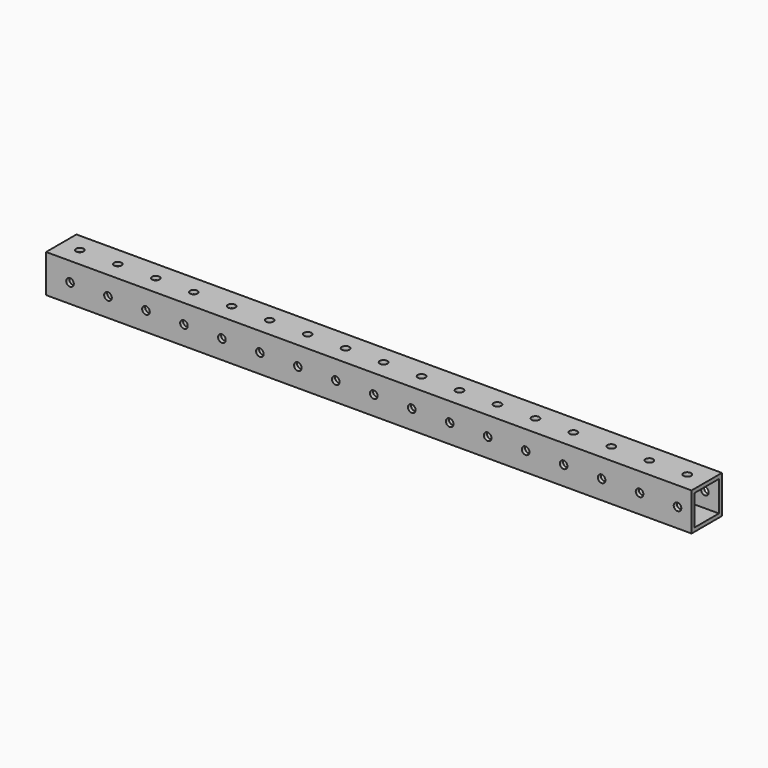
from build123d import *

# Parameters (mm, degrees)
F0_W     = 431.8
F0_H     = 25.4
F1_DEPTH = 25.4
F2_W     = 20.32
F2_H     = 20.32
F3_DEPTH = 457.2
F5_D     = 5.1054
F7_D     = 5.1054


with BuildPart() as f1:
    # F0 (on Top) → F1 (new body)
    with BuildSketch(Plane.XY):
        with Locations((-2.601906, -22.068714)):
            Rectangle(F0_W, F0_H)
    extrude(amount=F1_DEPTH)

    # F2 (on face) → F3 (cut)
    with BuildSketch(Plane.YZ.offset(213.298094)):
        with Locations((-22.068714, 12.7)):
            Rectangle(F2_W, F2_H)
    extrude(amount=-F3_DEPTH, mode=Mode.SUBTRACT)

    # F5 (through all)
    with Locations(Plane.XY.offset(25.4)):
        with Locations((200.313424, -22.068714), (149.513424, -22.068714), (225.713424, -22.068714), (73.313424, -22.068714), (98.713424, -22.068714), (124.113424, -22.068714), (-206.086576, -22.068714), (-180.686576, -22.068714), (-155.286576, -22.068714), (-129.886576, -22.068714), (-104.486576, -22.068714), (-79.086576, -22.068714), (-53.686576, -22.068714), (174.913424, -22.068714), (-28.286576, -22.068714), (-2.886576, -22.068714), (22.513424, -22.068714), (47.913424, -22.068714)):
            Hole(F5_D / 2)

    # F7 (through all)
    with Locations(Plane(origin=(0, -9.368714, 0), x_dir=(-1, 0, 0), z_dir=(0, 1, 0))):
        with Locations((177.082395, 12.7), (151.682395, 12.7), (-229.317605, 12.7), (-178.517605, 12.7), (-203.917605, 12.7), (-127.717605, 12.7), (-153.117605, 12.7), (50.082395, 12.7), (100.882395, 12.7), (75.482395, 12.7), (202.482395, 12.7), (126.282395, 12.7), (-76.917605, 12.7), (-102.317605, 12.7), (-26.117605, 12.7), (-51.517605, 12.7), (24.682395, 12.7), (-0.717605, 12.7)):
            Hole(F7_D / 2)


solid = f1.part
